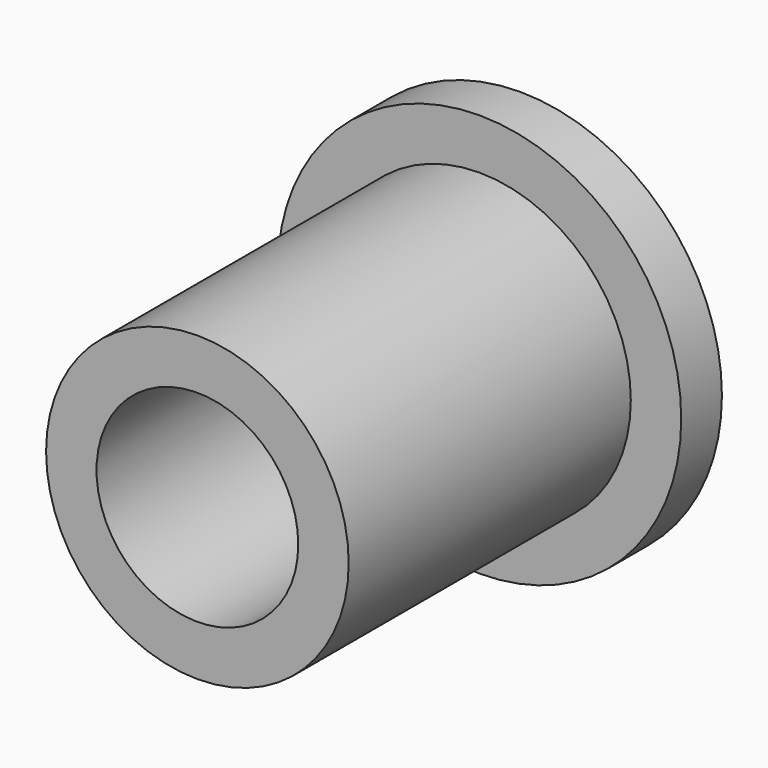
from build123d import *

# Parameters (mm, degrees)
F0_R     = 6.35
F1_DEPTH = 1.6002
F2_R     = 4.7625
F3_DEPTH = 11.0998
F4_R     = 3.175
F5_DEPTH = 19.05


with BuildPart() as f1:
    # F0 (on Front) → F1 (new body)
    with BuildSketch(Plane.XZ):
        Circle(F0_R)
    extrude(amount=-F1_DEPTH)

    # F2 (on face) → F3 (join)
    with BuildSketch(Plane.XZ):
        Circle(F2_R)
    extrude(amount=F3_DEPTH)

    # F4 (on face) → F5 (cut, symmetric)
    with BuildSketch(Plane.XZ):
        Circle(F4_R)
    extrude(amount=F5_DEPTH, both=True, mode=Mode.SUBTRACT)


solid = f1.part
